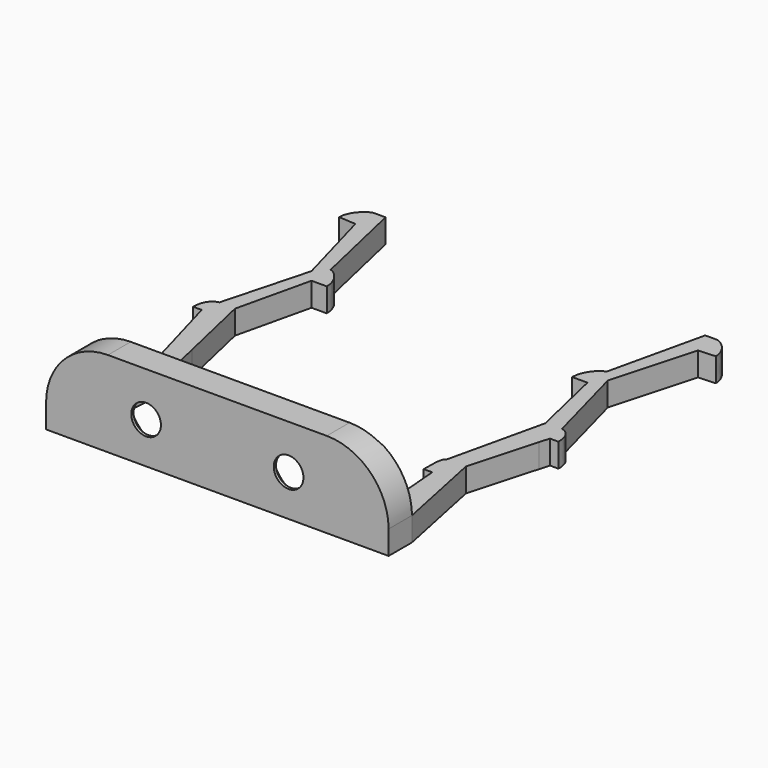
from build123d import *

# Parameters (mm, degrees)
F0_W     = 14.5
F0_H     = 3
F1_DEPTH = 2.5
F2_DEPTH = 9
F3_R     = 1.5606676117
F4_DEPTH = 25
F5_SIZE  = 2.7
F6_R     = 6.5


with BuildPart() as f1:
    # F0 (on Top) → F1 (new body)
    with BuildSketch(Plane.XY):
        Polygon((-15.1000638381, 3.0731637962), (-14.5, 10.1), (-14.5, 14.7897112858), (-16.3062401116, 22.7), (-14.5, 30.5), (-14.5, 33), (-16.8, 43.1), (-18, 43.1), (-18, 40.6315773726), (-15.569419682, 31.8290367723), (-18, 22.7700328082), (-18, 19.7484236718), (-16.0118928999, 12.6614226028), (-18, 3.0642349739), align=None)
        with Locations((-7.25, 1.5)):
            Rectangle(F0_W, F0_H)
        Polygon((-18, 0), (-14.5, 0), (-14.5, 3), (-15.1000638381, 3.0731637962), (-18, 3.0642349739), align=None)
        with Locations((7.25, 1.5)):
            Rectangle(F0_W, F0_H)
        Polygon((14.5, 3), (14.5, 0), (18, 0), (18, 3.0642349739), (15.1000638381, 3.0731637962), align=None)
        Polygon((14.5, 14.7897112858), (14.5, 10.1), (15.1000638381, 3.0731637962), (18, 3.0642349739), (16.0118928999, 12.6614226028), (18, 19.7484236718), (18, 22.7700328082), (15.569419682, 31.8290367723), (18, 40.6315773726), (18, 43.1), (16.8, 43.1), (14.5, 33), (14.5, 30.5), (16.3062401116, 22.7), align=None)
        with BuildLine():
            Line((13.6, 10.1), (14.5, 10.1))
            Line((14.5, 10.1), (14.5, 14.7897112858))
            Line((14.5, 14.7897112858), (14, 12.6))
            add(Edge.make_bspline(
                [(13.6, 10.1), (13.6104541942, 11.4760398865), (13.5792037472, 12.4339209869), (14, 12.6)],
                knots=[0, 0, 0, 0, 2.5317977802, 2.5317977802, 2.5317977802, 2.5317977802], degree=3))
        make_face()
        with BuildLine():
            Line((-14.5, 14.7897112858), (-14.5, 10.1))
            Line((-14.5, 10.1), (-13.6, 10.1))
            add(Edge.make_bspline(
                [(-13.6, 10.1), (-13.6104541942, 11.4760398865), (-13.5792037472, 12.4339209869), (-14, 12.6)],
                knots=[0, 0, 0, 0, 2.5317977802, 2.5317977802, 2.5317977802, 2.5317977802], degree=3))
            Line((-14, 12.6), (-14.5, 14.7897112858))
        make_face()
        with BuildLine():
            Line((18, 22.7700328082), (18, 19.7484236718))
            Line((18, 19.7484236718), (18.3, 20.8178330213))
            Line((18.3, 20.8178330213), (19.2, 20.8178330213))
            add(Edge.make_bspline(
                [(18, 22.7700328082), (18.5130968392, 22.7131574929), (19.1960260391, 22.1627136484), (19.2, 20.8178330213)],
                knots=[0, 0, 0, 0, 2.2915243852, 2.2915243852, 2.2915243852, 2.2915243852], degree=3))
        make_face()
        with BuildLine():
            Line((-18.3, 20.8178330213), (-18, 19.7484236718))
            Line((-18, 19.7484236718), (-18, 22.7700328082))
            add(Edge.make_bspline(
                [(-18, 22.7700328082), (-18.5130968392, 22.7131574929), (-19.1960260391, 22.1627136484), (-19.2, 20.8178330213)],
                knots=[0, 0, 0, 0, 2.2915243852, 2.2915243852, 2.2915243852, 2.2915243852], degree=3))
            Line((-19.2, 20.8178330213), (-18.3, 20.8178330213))
        make_face()
        with BuildLine():
            Line((12.9, 30.5), (14.5, 30.5))
            Line((14.5, 30.5), (14.5, 33))
            add(Edge.make_bspline(
                [(14.5, 33), (13.9373009205, 32.9109020531), (12.9039739609, 31.8448806271), (12.9, 30.5)],
                knots=[0, 0, 0, 0, 2.9681644159, 2.9681644159, 2.9681644159, 2.9681644159], degree=3))
        make_face()
        with BuildLine():
            Line((-14.5, 33), (-14.5, 30.5))
            Line((-14.5, 30.5), (-12.9, 30.5))
            add(Edge.make_bspline(
                [(-14.5, 33), (-13.9373009205, 32.9109020531), (-12.9039739609, 31.8448806271), (-12.9, 30.5)],
                knots=[0, 0, 0, 0, 2.9681644159, 2.9681644159, 2.9681644159, 2.9681644159], degree=3))
        make_face()
        with BuildLine():
            Line((-19.7963143, 40.7467074541), (-18, 40.6315773726))
            Line((-18, 40.6315773726), (-18, 43.1))
            add(Edge.make_bspline(
                [(-18, 43.1), (-18.5130959079, 43.0794730783), (-19.7923403391, 42.0915880812), (-19.7963143, 40.7467074541)],
                knots=[0, 0, 0, 0, 2.9605288161, 2.9605288161, 2.9605288161, 2.9605288161], degree=3))
        make_face()
        with BuildLine():
            Line((18, 43.1), (18, 40.6315773726))
            Line((18, 40.6315773726), (19.7963143, 40.7467074541))
            add(Edge.make_bspline(
                [(18, 43.1), (18.5130959079, 43.0794730783), (19.7923403391, 42.0915880812), (19.7963143, 40.7467074541)],
                knots=[0, 0, 0, 0, 2.9605288161, 2.9605288161, 2.9605288161, 2.9605288161], degree=3))
        make_face()
    extrude(amount=F1_DEPTH)

    # F0 (on Top) → F2 (join)
    with BuildSketch(Plane.XY):
        Polygon((-18, 0), (-14.5, 0), (-14.5, 3), (-15.1000638381, 3.0731637962), (-18, 3.0642349739), align=None)
        with Locations((-7.25, 1.5)):
            Rectangle(F0_W, F0_H)
        with Locations((7.25, 1.5)):
            Rectangle(F0_W, F0_H)
        Polygon((14.5, 3), (14.5, 0), (18, 0), (18, 3.0642349739), (15.1000638381, 3.0731637962), align=None)
    extrude(amount=F2_DEPTH)

    # F3 (on Front) → F4 (cut)
    with BuildSketch(Plane.XZ):
        with Locations((7.4880118482, 4.3315729126)):
            Circle(F3_R)
        with Locations((-7.4880118482, 4.3315729126)):
            Circle(F3_R)
    extrude(amount=-F4_DEPTH, mode=Mode.SUBTRACT)

    # F5
    f5_edges = [f1.edges().sort_by_distance(p)[0] for p in [
        (5.927344, 3, 4.331573),
        (-9.048679, 3, 4.331573),
    ]]
    chamfer(f5_edges, length=F5_SIZE)

    # F6
    f6_edges = [f1.edges().sort_by_distance(p)[0] for p in [
        (-18, 1.532117, 9),
        (18, 1.532117, 9),
    ]]
    fillet(f6_edges, radius=F6_R)


solid = f1.part
